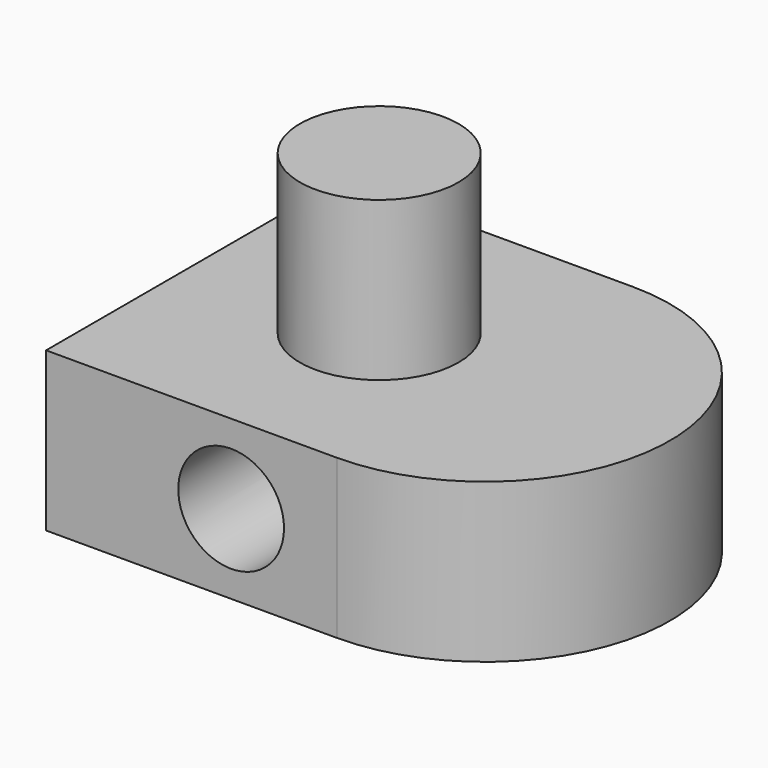
from build123d import *

# Parameters (mm, degrees)
F0_W     = 550
F0_H     = 300
F0_R     = 100
F1_DEPTH = 700
F2_W     = 350
F2_H     = 300
F3_ANGLE = 180
F5_D     = 100
F5_DEPTH = 350
F5_TIP   = 30.0430309514
F6_D     = 200
F6_DEPTH = 100
F6_TIP   = 60.0860619028
F7_R     = 150
F8_DEPTH = 300


with BuildPart() as f1:
    # F0 (on Front) → F1 (new body)
    with BuildSketch(Plane.XZ):
        with Locations((275, 150)):
            Rectangle(F0_W, F0_H)
        with Locations((350, 150)):
            Circle(F0_R, mode=Mode.SUBTRACT)
    extrude(amount=F1_DEPTH)

    # F2 (on face) → F3 (revolve)
    with BuildSketch(Plane.YZ.offset(550)):
        with Locations((-525, 150)):
            Rectangle(F2_W, F2_H)
    revolve(axis=Axis((550, -350, 150), (0, 0, 1)), revolution_arc=F3_ANGLE)

    # F5
    with Locations(Plane(origin=(0, 0, 0), x_dir=(0, -1, 0), z_dir=(-1, 0, 0))):
        with Locations((350, 150)):
            Hole(F5_D / 2, depth=F5_DEPTH)
            with Locations((0, 0, -(F5_DEPTH + F5_TIP / 2))):  # 118° drill point
                Cone(0, F5_D / 2, F5_TIP, mode=Mode.SUBTRACT)

    # F6
    with Locations(Plane(origin=(0, 0, 0), x_dir=(0, -1, 0), z_dir=(-1, 0, 0))):
        with Locations((350, 150)):
            Hole(F6_D / 2, depth=F6_DEPTH)
            with Locations((0, 0, -(F6_DEPTH + F6_TIP / 2))):  # 118° drill point
                Cone(0, F6_D / 2, F6_TIP, mode=Mode.SUBTRACT)

    # F7 (on face) → F8 (join)
    with BuildSketch(Plane.XY.offset(300)):
        with Locations((350, -350)):
            Circle(F7_R)
    extrude(amount=F8_DEPTH)


solid = f1.part
